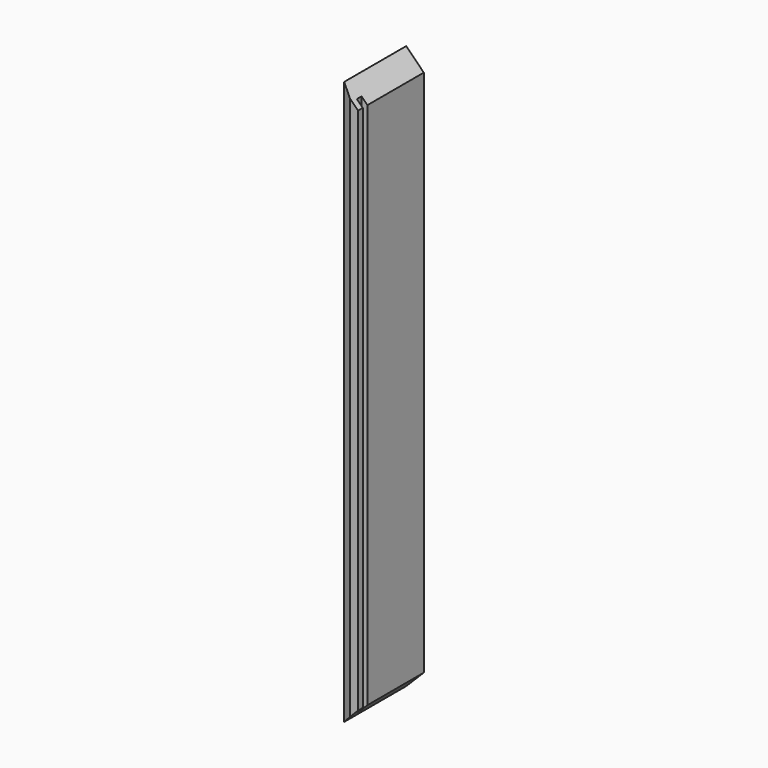
from build123d import *

# Parameters (mm, degrees)
F0_W     = 88.9
F0_H     = 609.6
F1_DEPTH = 19.05
F2_W     = 6.35
F2_H     = 609.6
F3_DEPTH = 6.35
F4_SIZE2 = 5.08
F4_SIZE  = 10.16
F6_DEPTH = 88.901


with BuildPart() as f1:
    # F0 (on Right) → F1 (new body)
    with BuildSketch(Plane.YZ):
        with Locations((44.45, 304.8)):
            Rectangle(F0_W, F0_H)
    extrude(amount=F1_DEPTH)

    # F2 (on face) → F3 (cut)
    with BuildSketch(Plane.YZ.offset(19.05)):
        with Locations((9.525, 304.8)):
            Rectangle(F2_W, F2_H)
    extrude(amount=-F3_DEPTH, mode=Mode.SUBTRACT)

    # F4
    f4_edges = [f1.edges().sort_by_distance(p)[0] for p in [
        (0, 0, 304.8),
    ]]
    chamfer(f4_edges, length=F4_SIZE, length2=F4_SIZE2)

    # F5 (on face) → F6 (cut, through all)
    with BuildSketch(Plane(origin=(0, 88.9, 0), x_dir=(-1, 0, 0), z_dir=(0, 1, 0))):
        Polygon((-19.05, 590.55), (0, 609.6), (-19.05, 609.6), align=None)
        Polygon((-19.05, 0), (0, 0), (-19.05, 19.05), align=None)
    extrude(amount=-F6_DEPTH, mode=Mode.SUBTRACT)


solid = f1.part
